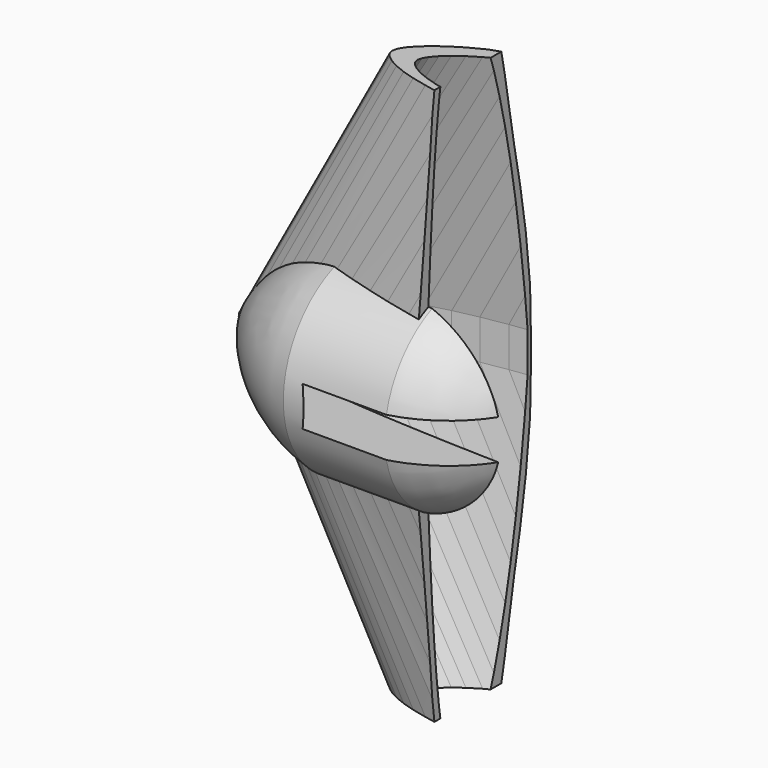
from build123d import *

# Parameters (mm, degrees)
PAD_DEPTH        = 5
REVOLUTION_ANGLE = 180
BOX_W            = 300
BOX_H            = 100
BOX_DEPTH        = 140


with BuildPart() as fusoliera:
    # Sketch → Pad (new body, symmetric)
    with BuildSketch(Plane.XY):
        with BuildLine():
            Line((290, 0), (289.7129, 0.0174))
            Line((289.7129, 0.0174), (288.8574, 0.0696))
            Line((288.8574, 0.0696), (287.4306, 0.1769))
            Line((287.4306, 0.1769), (285.4441, 0.3509))
            Line((285.4441, 0.3509), (282.9037, 0.6003))
            Line((282.9037, 0.6003), (279.8181, 0.9251))
            Line((279.8181, 0.9251), (276.1989, 1.3224))
            Line((276.1989, 1.3224), (272.0635, 1.7893))
            Line((272.0635, 1.7893), (267.4264, 2.3229))
            Line((267.4264, 2.3229), (262.3079, 2.9261))
            Line((262.3079, 2.9261), (256.7254, 3.6076))
            Line((256.7254, 3.6076), (250.6992, 4.3587))
            Line((250.6992, 4.3587), (244.2583, 5.1852))
            Line((244.2583, 5.1852), (237.4259, 6.0784))
            Line((237.4259, 6.0784), (230.2281, 7.0383))
            Line((230.2281, 7.0383), (230.2281, 40.028069))
            Line((230.2281, 40.028069), (201.90651, 39.515951))
            ThreePointArc((172.217343, 14.637652), (187.660006, 26.363067), (201.90651, 39.515951))
            Line((172.217343, 14.637652), (163.1743, 16.2081))
            Line((163.1743, 16.2081), (154.106, 17.371))
            Line((154.106, 17.371), (145, 18.4817))
            Line((145, 18.4817), (135.8969, 19.5199))
            Line((135.8969, 19.5199), (126.8257, 20.4682))
            Line((126.8257, 20.4682), (117.8299, 21.3034))
            Line((117.8299, 21.3034), (108.9414, 22.0023))
            Line((108.9414, 22.0023), (100.1921, 22.5446))
            Line((100.1921, 22.5446), (91.6226, 22.9129))
            Line((91.6226, 22.9129), (83.2619, 23.0898))
            Line((83.2619, 23.0898), (75.1448, 23.0608))
            Line((75.1448, 23.0608), (67.3061, 22.8201))
            Line((67.3061, 22.8201), (59.7719, 22.3561))
            Line((59.7719, 22.3561), (52.5741, 21.6717))
            Line((52.5741, 21.6717), (45.7417, 20.7698))
            Line((45.7417, 20.7698), (39.3008, 19.662))
            Line((39.3008, 19.662), (33.2746, 18.3628))
            Line((33.2746, 18.3628), (27.6921, 16.8896))
            Line((27.6921, 16.8896), (22.5736, 15.2714))
            Line((22.5736, 15.2714), (17.9365, 13.5314))
            Line((17.9365, 13.5314), (13.8011, 11.7015))
            Line((13.8011, 11.7015), (10.1819, 9.8165))
            Line((10.1819, 9.8165), (7.0963, 7.9112))
            Line((7.0963, 7.9112), (4.5559, 6.0378))
            Line((4.5559, 6.0378), (2.5694, 4.263))
            Line((2.5694, 4.263), (1.1426, 2.6535))
            Line((1.1426, 2.6535), (0.2871, 1.2383))
            Line((0.2871, 1.2383), (0, 0))
            Line((0, 0), (0.2871, -1.131))
            Line((0.2871, -1.131), (1.1426, -2.2243))
            Line((1.1426, -2.2243), (2.5694, -3.3176))
            Line((2.5694, -3.3176), (4.5559, -4.3964))
            Line((4.5559, -4.3964), (7.0963, -5.4201))
            Line((38.675534, -31.593528), (7.0963, -5.4201))
            Line((38.675534, -31.593528), (232.520951, -31.593528))
            Line((232.520951, -31.593528), (244.2583, -4.8227))
            Line((244.2583, -4.8227), (250.6992, -4.1267))
            Line((250.6992, -4.1267), (256.7254, -3.4626))
            Line((256.7254, -3.4626), (262.3079, -2.842))
            Line((262.3079, -2.842), (267.4264, -2.2765))
            Line((267.4264, -2.2765), (272.0635, -1.7661))
            Line((272.0635, -1.7661), (276.1989, -1.3137))
            Line((276.1989, -1.3137), (279.8181, -0.9222))
            Line((279.8181, -0.9222), (282.9037, -0.5974))
            Line((282.9037, -0.5974), (285.4441, -0.3509))
            Line((285.4441, -0.3509), (287.4306, -0.1769))
            Line((287.4306, -0.1769), (288.8574, -0.0696))
            Line((288.8574, -0.0696), (289.7129, -0.0174))
            Line((289.7129, -0.0174), (290, 0))
        make_face()
    extrude(amount=PAD_DEPTH, both=True)


with BuildPart() as loft_body:
    # Sketch001 → Loft section 0
    with BuildSketch(Plane.XY):
        Polygon((290, 0), (289.7129, 0.0174), (288.8574, 0.0696), (287.4306, 0.1769), (285.4441, 0.3509), (282.9037, 0.6003), (279.8181, 0.9251), (276.1989, 1.3224), (272.0635, 1.7893), (267.4264, 2.3229), (262.3079, 2.9261), (256.7254, 3.6076), (250.6992, 4.3587), (244.2583, 5.1852), (237.4259, 6.0784), (230.2281, 7.0383), (222.6939, 8.0591), (214.8552, 9.135), (206.7381, 10.2573), (198.3774, 11.4173), (189.8079, 12.6034), (181.0615, 13.8098), (172.1701, 15.0162), (163.1743, 16.2081), (154.106, 17.371), (145, 18.4817), (135.8969, 19.5199), (126.8257, 20.4682), (117.8299, 21.3034), (108.9414, 22.0023), (100.1921, 22.5446), (91.6226, 22.9129), (83.2619, 23.0898), (75.1448, 23.0608), (67.3061, 22.8201), (59.7719, 22.3561), (52.5741, 21.6717), (45.7417, 20.7698), (39.3008, 19.662), (33.2746, 18.3628), (27.6921, 16.8896), (22.5736, 15.2714), (17.9365, 13.5314), (13.8011, 11.7015), (10.1819, 9.8165), (7.0963, 7.9112), (4.5559, 6.0378), (2.5694, 4.263), (1.1426, 2.6535), (0.2871, 1.2383), (0, 0), (0.2871, -1.131), (1.1426, -2.2243), (2.5694, -3.3176), (4.5559, -4.3964), (7.0963, -5.4201), (10.1819, -6.3568), (13.8011, -7.1949), (17.9365, -7.9344), (22.5736, -8.5811), (27.6921, -9.1437), (33.2746, -9.6367), (39.3008, -10.063), (45.7417, -10.4371), (52.5741, -10.7619), (59.7719, -11.0461), (67.3061, -11.2926), (75.1448, -11.5043), (83.2619, -11.6812), (91.6226, -11.8175), (100.1921, -11.9161), (108.9414, -11.9683), (117.8299, -11.9712), (126.8257, -11.9161), (135.8969, -11.8001), (145, -11.6174), (154.106, -11.3651), (163.1743, -11.0374), (172.1701, -10.6401), (181.0615, -10.1732), (189.8079, -9.6396), (198.3774, -9.0451), (206.7381, -8.4013), (214.8552, -7.7169), (222.6939, -7.0064), (230.2281, -6.2756), (237.4259, -5.5448), (244.2583, -4.8227), (250.6992, -4.1267), (256.7254, -3.4626), (262.3079, -2.842), (267.4264, -2.2765), (272.0635, -1.7661), (276.1989, -1.3137), (279.8181, -0.9222), (282.9037, -0.5974), (285.4441, -0.3509), (287.4306, -0.1769), (288.8574, -0.0696), (289.7129, -0.0174), align=None)
    # Sketch002 → Loft section 1
    with BuildSketch(Plane(origin=(260, 0, 430), x_dir=(1, 0, 0), z_dir=(0, 0, 1))):
        Polygon((120, 0), (119.8812, 0.0072), (119.5272, 0.0288), (118.9368, 0.0732), (118.1148, 0.1452), (117.0636, 0.2484), (115.7868, 0.3828), (114.2892, 0.5472), (112.578, 0.7404), (110.6592, 0.9612), (108.5412, 1.2108), (106.2312, 1.4928), (103.7376, 1.8036), (101.0724, 2.1456), (98.2452, 2.5152), (95.2668, 2.9124), (92.1492, 3.3348), (88.9056, 3.78), (85.5468, 4.2444), (82.0872, 4.7244), (78.5412, 5.2152), (74.922, 5.7144), (71.2428, 6.2136), (67.5204, 6.7068), (63.768, 7.188), (60, 7.6476), (56.2332, 8.0772), (52.4796, 8.4696), (48.7572, 8.8152), (45.0792, 9.1044), (41.4588, 9.3288), (37.9128, 9.4812), (34.4532, 9.5544), (31.0944, 9.5424), (27.8508, 9.4428), (24.7332, 9.2508), (21.7548, 8.9676), (18.9276, 8.5944), (16.2624, 8.136), (13.7688, 7.5984), (11.4588, 6.9888), (9.3408, 6.3192), (7.422, 5.5992), (5.7108, 4.842), (4.2132, 4.062), (2.9364, 3.2736), (1.8852, 2.4984), (1.0632, 1.764), (0.4728, 1.098), (0.1188, 0.5124), (0, 0), (0.1188, -0.468), (0.4728, -0.9204), (1.0632, -1.3728), (1.8852, -1.8192), (2.9364, -2.2428), (4.2132, -2.6304), (5.7108, -2.9772), (7.422, -3.2832), (9.3408, -3.5508), (11.4588, -3.7836), (13.7688, -3.9876), (16.2624, -4.164), (18.9276, -4.3188), (21.7548, -4.4532), (24.7332, -4.5708), (27.8508, -4.6728), (31.0944, -4.7604), (34.4532, -4.8336), (37.9128, -4.89), (41.4588, -4.9308), (45.0792, -4.9524), (48.7572, -4.9536), (52.4796, -4.9308), (56.2332, -4.8828), (60, -4.8072), (63.768, -4.7028), (67.5204, -4.5672), (71.2428, -4.4028), (74.922, -4.2096), (78.5412, -3.9888), (82.0872, -3.7428), (85.5468, -3.4764), (88.9056, -3.1932), (92.1492, -2.8992), (95.2668, -2.5968), (98.2452, -2.2944), (101.0724, -1.9956), (103.7376, -1.7076), (106.2312, -1.4328), (108.5412, -1.176), (110.6592, -0.942), (112.578, -0.7308), (114.2892, -0.5436), (115.7868, -0.3816), (117.0636, -0.2472), (118.1148, -0.1452), (118.9368, -0.0732), (119.5272, -0.0288), (119.8812, -0.0072), align=None)
    loft()


with BuildPart() as loft_body_1:
    # Loft placement: moved
    add(loft_body.part.moved(Location((0, 0, 5))))


with BuildPart() as aereo:
    # Part__Mirroring: instance of Loft body
    add(loft_body_1.part.mirror(Plane(origin=(170, 5.5593, 0), x_dir=(0, 1, 0), z_dir=(0, 0, 1))))

    # Fusion001: union Loft body
    add(loft_body_1.part)

    # Fusion002: union fusoliera
    add(fusoliera.part)


with BuildPart() as obj1:
    # Sketch005 → Revolution (revolve)
    with BuildSketch(Plane.XZ):
        with BuildLine():
            ThreePointArc((25.407095, 24.798698), (7.644088, 15.826593), (-4.419994, 0))
            Line((-4.419994, 0), (73.884384, 0))
            ThreePointArc((73.884384, 0), (66.028237, 15.73582), (50.955104, 24.798698))
            Line((25.407095, 24.798698), (50.955104, 24.798698))
        make_face()
    revolve(axis=Axis((0, 0, 0), (1, 0, 0)), revolution_arc=REVOLUTION_ANGLE)


with BuildPart() as cubo:
    # Box → Box (new body)
    with BuildSketch(Plane(origin=(50, -50, -70), x_dir=(1, 0, 0), z_dir=(0, 0, 1))):
        with Locations((150, 50)):
            Rectangle(BOX_W, BOX_H)
    extrude(amount=BOX_DEPTH)


with BuildPart() as loft001:
    # Sketch003 → Loft001 section 0
    with BuildSketch(Plane(origin=(-5, 0, 0), x_dir=(1, 0, 0), z_dir=(0, 0, 1))):
        Polygon((300, 0), (299.703, 0.018), (298.818, 0.072), (297.342, 0.183), (295.287, 0.363), (292.659, 0.621), (289.467, 0.957), (285.723, 1.368), (281.445, 1.851), (276.648, 2.403), (271.353, 3.027), (265.578, 3.732), (259.344, 4.509), (252.681, 5.364), (245.613, 6.288), (238.167, 7.281), (230.373, 8.337), (222.264, 9.45), (213.867, 10.611), (205.218, 11.811), (196.353, 13.038), (187.305, 14.286), (178.107, 15.534), (168.801, 16.767), (159.42, 17.97), (150, 19.119), (140.583, 20.193), (131.199, 21.174), (121.893, 22.038), (112.698, 22.761), (103.647, 23.322), (94.782, 23.703), (86.133, 23.886), (77.736, 23.856), (69.627, 23.607), (61.833, 23.127), (54.387, 22.419), (47.122498, 22.28804), (40.386608, 21.29422), (33.761143, 19.637854), (28.019072, 17.871065), (23.218418, 16.053862), (18.61986, 14.152198), (14.277, 12.105), (10.533, 10.155), (7.341, 8.184), (4.713, 6.246), (2.658, 4.41), (1.182, 2.745), (0.297, 1.281), (0, 0), (0.297, -1.17), (1.182, -2.301), (2.658, -3.432), (4.713, -4.548), (7.341, -5.607), (10.368199, -6.953395), (14.311341, -8.103964), (18.149906, -9.159569), (22.843533, -10.31214), (28.600012, -11.483979), (34.357857, -12.539584), (40.595524, -13.499225), (45.681622, -14.266937), (53.742603, -15.322543), (60.843948, -15.994291), (68.137215, -15.802364), (77.736, -11.901), (86.133, -12.084), (94.782, -12.225), (103.647, -12.327), (112.698, -12.381), (121.893, -12.384), (131.199, -12.327), (140.583, -12.207), (150, -12.018), (159.42, -11.757), (168.801, -11.418), (178.107, -11.007), (187.305, -10.524), (196.353, -9.972), (205.218, -9.357), (213.867, -8.691), (222.264, -7.983), (230.373, -7.248), (238.167, -6.492), (245.613, -5.736), (252.681, -4.989), (259.344, -4.269), (265.578, -3.582), (271.353, -2.94), (276.648, -2.355), (281.445, -1.827), (285.723, -1.359), (289.467, -0.954), (292.659, -0.618), (295.287, -0.363), (297.342, -0.183), (298.818, -0.072), (299.703, -0.018), align=None)
    # Sketch004 → Loft001 section 1
    with BuildSketch(Plane(origin=(33, 0, 70), x_dir=(1, 0, 0), z_dir=(0, 0, 1))):
        Polygon((300, 0), (299.703, 0.018), (298.818, 0.072), (297.342, 0.183), (295.287, 0.363), (292.659, 0.621), (289.467, 0.957), (285.723, 1.368), (281.445, 1.851), (276.648, 2.403), (271.353, 3.027), (265.578, 3.732), (259.344, 4.509), (252.681, 5.364), (245.613, 6.288), (238.167, 7.281), (230.373, 8.337), (222.264, 9.45), (213.867, 10.611), (205.218, 11.811), (196.353, 13.038), (187.305, 14.286), (178.107, 15.534), (168.801, 16.767), (159.42, 17.97), (150, 19.119), (140.583, 20.193), (131.199, 21.174), (121.893, 22.038), (112.698, 22.761), (103.647, 23.322), (94.782, 23.703), (86.133, 23.886), (77.736, 23.856), (69.627, 23.607), (61.833, 23.127), (54.387, 22.419), (47.319, 21.486), (40.463661, 19.942249), (34.701691, 18.390964), (29.541672, 16.724981), (24.743465, 15.477445), (20.041225, 14.133949), (14.277, 12.105), (10.533, 10.155), (7.341, 8.184), (4.713, 6.246), (2.658, 4.41), (1.182, 2.745), (0.297, 1.281), (0, 0), (0.297, -1.17), (1.182, -2.301), (2.658, -3.432), (4.713, -4.548), (7.341, -5.607), (10.533, -6.576), (14.277, -7.443), (20.041225, -8.60954), (24.743465, -9.089361), (30.117455, -9.665145), (34.422, -9.969), (40.656, -10.41), (47.319, -10.797), (54.387, -11.133), (61.833, -11.427), (69.627, -11.682), (77.736, -11.901), (86.133, -12.084), (94.782, -12.225), (103.647, -12.327), (112.698, -12.381), (121.893, -12.384), (131.199, -12.327), (140.583, -12.207), (150, -12.018), (159.42, -11.757), (168.801, -11.418), (178.107, -11.007), (187.305, -10.524), (196.353, -9.972), (205.218, -9.357), (213.867, -8.691), (222.264, -7.983), (230.373, -7.248), (238.167, -6.492), (245.613, -5.736), (252.681, -4.989), (259.344, -4.269), (265.578, -3.582), (271.353, -2.94), (276.648, -2.355), (281.445, -1.827), (285.723, -1.359), (289.467, -0.954), (292.659, -0.618), (295.287, -0.363), (297.342, -0.183), (298.818, -0.072), (299.703, -0.018), align=None)
    loft()


with BuildPart() as obj2:
    # Part__Mirroring001: instance of Loft001
    add(loft001.part.mirror(Plane(origin=(160, 5.751, 0), x_dir=(0, 1, 0), z_dir=(0, 0, 1))))

    # Fusion: union Loft001
    add(loft001.part)

    # Cut: cut Cubo
    add(cubo.part, mode=Mode.SUBTRACT)

    # Fusion003: union obj1
    add(obj1.part)

    # Cut001: cut aereo
    add(aereo.part, mode=Mode.SUBTRACT)


solid = obj2.part
